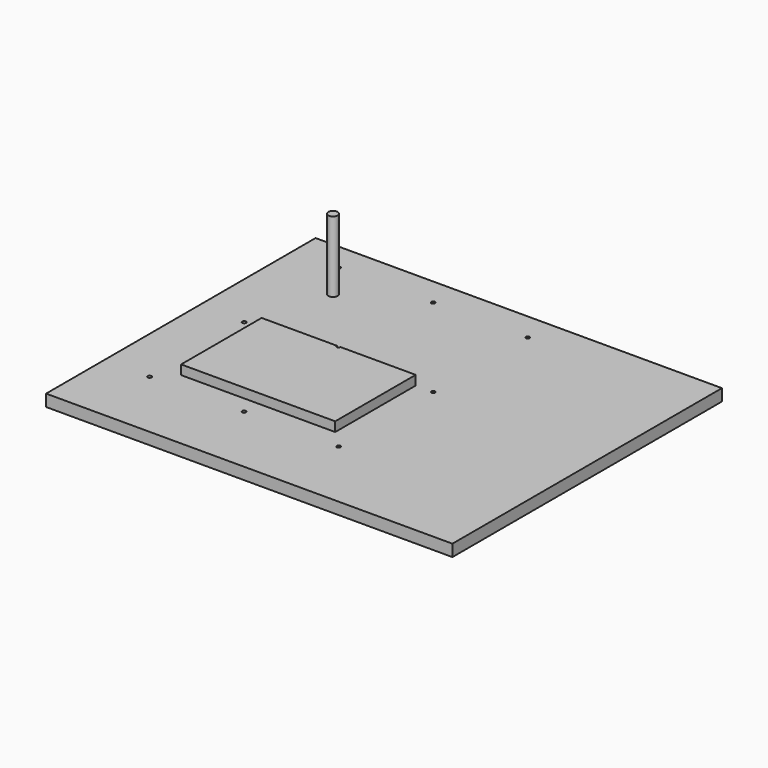
from build123d import *

# Parameters (mm, degrees)
F0_W     = 860
F0_H     = 713
F1_DEPTH = 25
F2_R     = 4
F3_DEPTH = 20
F5_DEPTH = 20
F6_R     = 10
F7_DEPTH = 150


with BuildPart() as f1:
    # F0 (on Top) → F1 (new body)
    with BuildSketch(Plane.XY):
        with Locations((-372.361999, 315.663677)):
            Rectangle(F0_W, F0_H)
    extrude(amount=-F1_DEPTH)

    # F2 (on face) → F3 (cut)
    with BuildSketch(Plane.XY):
        with Locations((-706.361999, 613.163677)):
            Circle(F2_R)
        with Locations((-506.361999, 613.163677)):
            Circle(F2_R)
        with Locations((-306.361999, 613.163677)):
            Circle(F2_R)
        with Locations((-706.361999, 363.163677)):
            Circle(F2_R)
        with Locations((-506.361999, 363.163677)):
            Circle(F2_R)
        with Locations((-306.361999, 363.163677)):
            Circle(F2_R)
        with Locations((-706.361999, 113.163677)):
            Circle(F2_R)
        with Locations((-506.361999, 113.163677)):
            Circle(F2_R)
        with Locations((-306.361999, 113.163677)):
            Circle(F2_R)
    extrude(amount=-F3_DEPTH, mode=Mode.SUBTRACT)

    # F4 (on face) → F5 (join)
    with BuildSketch(Plane.XY):
        with BuildLine():
            Line((-669.361999, 363.163677), (-669.361999, 150.163677))
            Line((-669.361999, 150.163677), (-343.272001, 150.163677))
            Line((-343.272001, 150.163677), (-343.272001, 363.163677))
            Line((-343.272001, 363.163677), (-502.361999, 363.163677))
            ThreePointArc((-502.361999, 363.163677), (-506.361999, 359.163677), (-510.361999, 363.163677))
            Line((-510.361999, 363.163677), (-669.361999, 363.163677))
        make_face()
    extrude(amount=F5_DEPTH)

    # F6 (on face) → F7 (join)
    with BuildSketch(Plane.XY):
        with Locations((-654.361999, 533.163677)):
            Circle(F6_R)
    extrude(amount=F7_DEPTH)


solid = f1.part
